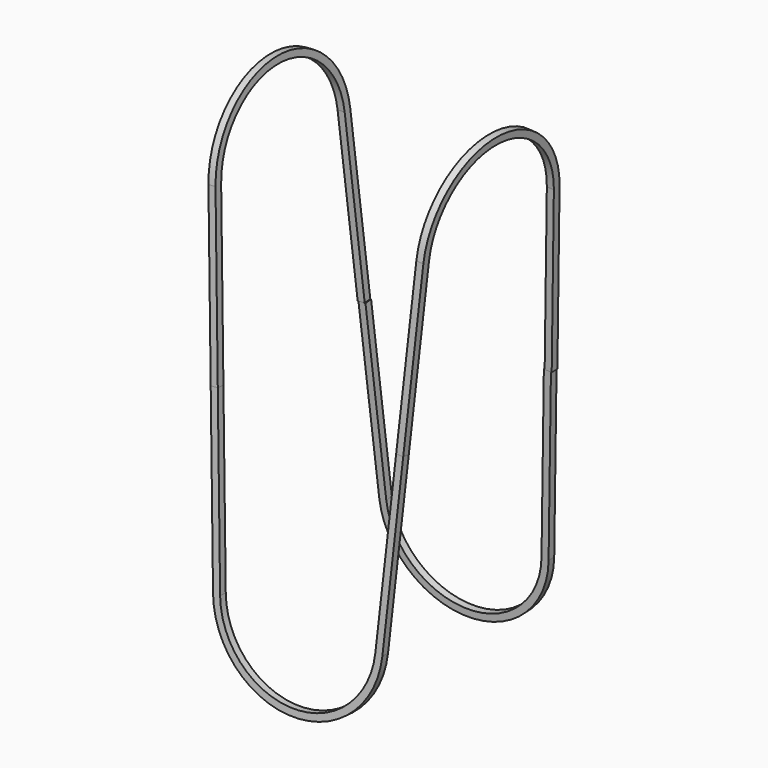
from build123d import *

# Parameters (mm, degrees)
F3_DEPTH = 12.7
F6_DEPTH = 12.7


with BuildPart() as f3:
    # F2 (on line) → F3 (new body)
    with BuildSketch(Plane(origin=(0, 0, 0), x_dir=(-1, 0, 0), z_dir=(0, 0.9978141736, -0.066082335))):
        with BuildLine():
            Line((-172.8647352488, 303.9607363172), (-152.0668657262, -10.0711641936))
            ThreePointArc((-152.0668657262, -10.0711641936), (0, -152.4), (152.0668657262, -10.0711641936))
            Line((152.0668657262, -10.0711641936), (172.8647352488, 303.9607363172))
            Line((172.8647352488, 303.9607363172), (160.1924964383, 304.8))
            Line((160.1924964383, 304.8), (139.3946269157, -9.2319005108))
            ThreePointArc((139.3946269157, -9.2319005108), (0, -139.7), (-139.3946269157, -9.2319005108))
            Line((-139.3946269157, -9.2319005108), (-160.1924964383, 304.8))
            Line((-160.1924964383, 304.8), (-172.8647352488, 303.9607363172))
        make_face()
    extrude(amount=F3_DEPTH)


with BuildPart() as f6:
    # F5 (on face) → F6 (new body)
    with BuildSketch(Plane(origin=(152.0673267986, -0.665513706, -10.0489640396), x_dir=(-0.0043573713, -0.9999904652, 0.0002879453), z_dir=(-0.9978141736, 0.004366875, 0.0659378905))):
        with BuildLine():
            Line((-33.4245076272, 313.197288843), (-20.7521467938, 314.0347080374))
            Line((-20.7521467938, 314.0347080374), (-40.850207461, 618.1713680398))
            ThreePointArc((-40.850207461, 618.1713680398), (-192.9185374622, 760.5223377062), (-344.9868674634, 618.1713680398))
            Line((-344.9868674634, 618.1713680398), (-365.0849281307, 314.0347080374))
            Line((-365.0849281307, 314.0347080374), (-352.4125672972, 313.197288843))
            Line((-352.4125672972, 313.197288843), (-332.31450663, 617.3339488454))
            ThreePointArc((-332.31450663, 617.3339488454), (-192.9185374622, 747.8223377062), (-53.5225682945, 617.3339488454))
            Line((-53.5225682945, 617.3339488454), (-33.4245076272, 313.197288843))
        make_face()
    extrude(amount=F6_DEPTH)


with BuildPart() as f7_1:
    # F7: instance of F6
    add(f6.part.mirror(Plane.YZ))


with BuildPart() as f10_1:
    # F10: instance of F3
    add(f3.part.mirror(Plane(origin=(0, 192.251184308, 0), x_dir=(-1, 0, 0), z_dir=(0, 1, 0))))


solid = Compound([f3.part, f6.part, f7_1.part, f10_1.part])
